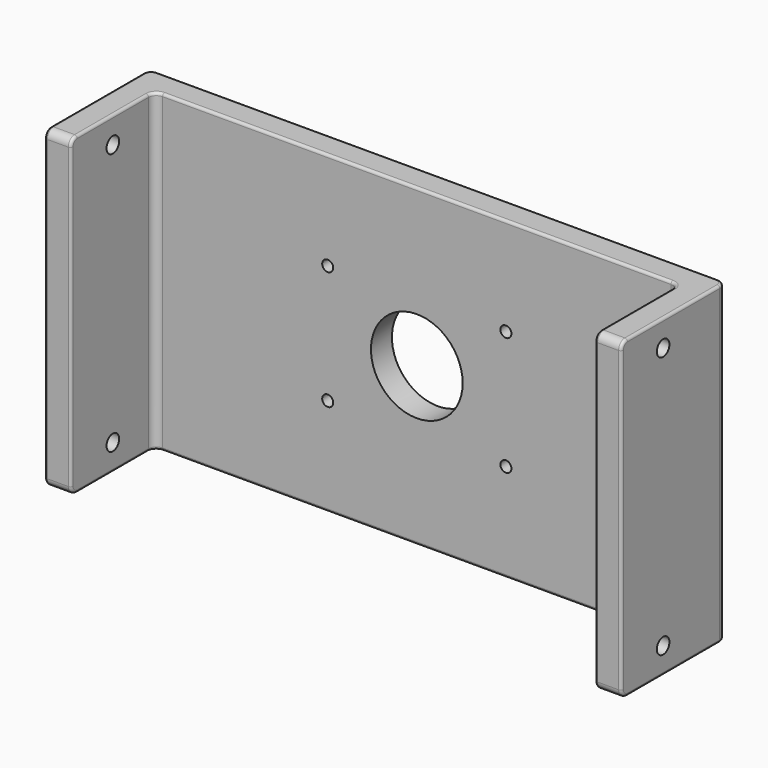
from build123d import *

# Parameters (mm, degrees)
PAD_DEPTH       = 60
SKETCH001_R     = 3
POCKET_DEPTH    = 110.001
FILLET_R        = 3
FILLET001_R     = 1
SKETCH004_R     = 1.4
POCKET002_DEPTH = 3
SKETCH002_R     = 17.5
POCKET003_DEPTH = 10.001
SKETCH005_R     = 2.1
POCKET004_DEPTH = 6


with BuildPart() as part:
    # Sketch → Pad (new body, symmetric)
    with BuildSketch(Plane.XY):
        Polygon((0, 40), (-100, 40), (-100, 0), (-110, 0), (-110, 50), (0, 50), align=None)
        Polygon((0, 40), (0, 50), align=None)
    extrude(amount=PAD_DEPTH, both=True)

    # Sketch001 (on Face3 of Pad) → Pocket (cut, through all)
    with BuildSketch(Plane(origin=(-110, 0, 0), x_dir=(0, -1, 0), z_dir=(-1, 0, 0))):
        with Locations((-20, -50)):
            Circle(SKETCH001_R)
        with Locations((-20, 50)):
            Circle(SKETCH001_R)
    extrude(amount=-POCKET_DEPTH, mode=Mode.SUBTRACT)

    # Fillet
    fillet_edges = [part.edges().sort_by_distance(p)[0] for p in [
        (-105, 0, -60),
        (-100, 40, 0),
        (-105, 0, 60),
        (-110, 50, 0),
    ]]
    fillet(fillet_edges, radius=FILLET_R)

    # Fillet001
    fillet001_edges = [part.edges().sort_by_distance(p)[0] for p in [
        (-110, 25, 60),
        (-100, 0, 0),
    ]]
    fillet(fillet001_edges, radius=FILLET001_R)

    # Mirrored: part across YZ


with BuildPart() as part_1:
    add(part.part)
    add(part.part.mirror(Plane.YZ))

    # Sketch004 (on Face48 of Mirrored) → Pocket002 (cut)
    with BuildSketch(Plane(origin=(0, 0, -60), x_dir=(1, 0, 0), z_dir=(0, 0, -1))):
        with Locations((-7, -45)):
            Circle(SKETCH004_R)
        with Locations((7, -45)):
            Circle(SKETCH004_R)
    extrude(amount=-POCKET002_DEPTH, mode=Mode.SUBTRACT)

    # Sketch002 (on Face1 of Fillet001) → Pocket003 (cut, through all)
    with BuildSketch(Plane.XZ.offset(-40)):
        Circle(SKETCH002_R)
    extrude(amount=-POCKET003_DEPTH, mode=Mode.SUBTRACT)

    # Sketch005 (on Face34 of Pocket003) → Pocket004 (cut)
    with BuildSketch(Plane.XZ.offset(-40)):
        with Locations((-34, 22.65)):
            Circle(SKETCH005_R)
        with Locations((-34, -22.65)):
            Circle(SKETCH005_R)
        with Locations((34, -22.65)):
            Circle(SKETCH005_R)
        with Locations((34, 22.65)):
            Circle(SKETCH005_R)
    extrude(amount=-POCKET004_DEPTH, mode=Mode.SUBTRACT)


solid = part_1.part
